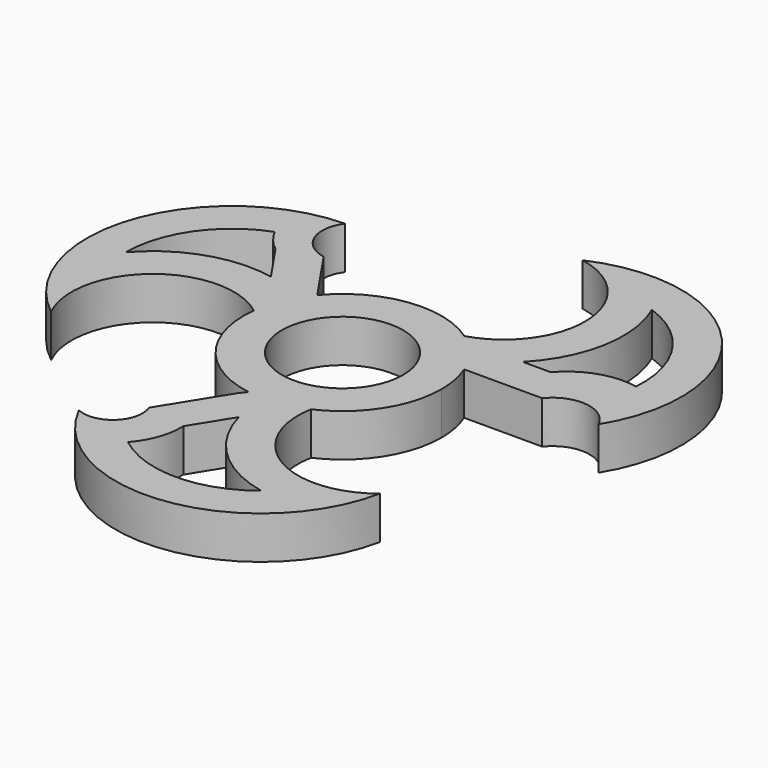
from build123d import *

# Parameters (mm, degrees)
F0_R     = 10.0040416518
F1_DEPTH = 7.04


with BuildPart() as f1:
    # F0 (on Top) → F1 (new body)
    with BuildSketch(Plane.XY):
        with BuildLine():
            ThreePointArc((8.0596013479, 39.4250795937), (18.9862113581, 26.931715548), (9.3900539463, 13.3896066124))
            ThreePointArc((9.3900539463, 13.3896066124), (12.8029919773, 10.175366076), (15.1637771231, 6.1249115676))
            Line((15.1637771231, 6.1249115676), (15.937639911, 6.1249115676))
            Line((15.937639911, 6.1249115676), (28.0554961826, 6.1249115676))
            ThreePointArc((28.0554961826, 6.1249115676), (33.4743323204, 8.3717454292), (38.2599624573, 4.9791370399))
            ThreePointArc((38.2599624573, 4.9791370399), (35.9003199694, 33.3723310432), (8.0596013479, 39.4250795937))
        make_face()
        with BuildLine():
            ThreePointArc((35.4391843293, 16.2098441298), (29.4013015143, 15.8466192988), (24.3793946911, 12.4749115676))
            Line((24.3793946911, 12.4749115676), (19.7612497114, 12.4749115676))
            ThreePointArc((19.7612497114, 12.4749115676), (25.0400123396, 22.7411647393), (23.6803165677, 34.204694583))
            ThreePointArc((23.6803165677, 34.204694583), (32.6253176497, 27.2104868561), (35.4391843293, 16.2098441298))
        make_face(mode=Mode.SUBTRACT)
        with BuildLine():
            ThreePointArc((15.1637771231, 6.1249115676), (12.8029919773, 10.175366076), (9.3900539463, 13.3896066124))
            ThreePointArc((9.3900539463, 13.3896066124), (-2.1364828918, 16.2138866162), (-12.5379799884, 10.5001779109))
            ThreePointArc((-12.5379799884, 10.5001779109), (-14.9968569617, 6.5229563558), (-16.2297438327, 2.0124844036))
            ThreePointArc((-16.2297438327, 2.0124844036), (-13.0647635418, -9.8370031995), (-2.5516255591, -16.1537576234))
            ThreePointArc((-2.5516255591, -16.1537576234), (-2.5484818112, -16.154253892), (-2.5453379668, -16.1547495488))
            ThreePointArc((-2.5453379668, -16.1547495488), (-2.5451208542, -16.1547837555), (-2.5449037412, -16.1548179593))
            ThreePointArc((-2.5449037412, -16.1548179593), (2.1768059123, -16.2085222759), (6.717037457, -14.9109384732))
            ThreePointArc((6.717037457, -14.9109384732), (13.7350898923, -8.877048158), (16.3540416518, 0))
            ThreePointArc((16.3540416518, 0), (16.0537179653, 3.1197464384), (15.1637771231, 6.1249115676))
        make_face()
        Circle(F0_R, mode=Mode.SUBTRACT)
        with BuildLine():
            ThreePointArc((-16.2297438327, 2.0124844036), (-14.9968569617, 6.5229563558), (-12.5379799884, 10.5001779109))
            Line((-12.5379799884, 10.5001779109), (-13.1381993498, 11.348302759))
            Line((-13.1381993498, 11.348302759), (-18.6180223097, 19.38283416))
            ThreePointArc((-18.6180223097, 19.38283416), (-22.886896, 22.8371620642), (-22.2051291736, 28.2860938723))
            ThreePointArc((-22.2051291736, 28.2860938723), (-44.431743107, 11.8873369712), (-36.4311702867, -14.5499932531))
            ThreePointArc((-36.4311702867, -14.5499932531), (-32.9169731903, 1.7648878816), (-16.2297438327, 2.0124844036))
        make_face()
        with BuildLine():
            ThreePointArc((-27.8425738277, 20.8345445104), (-26.5172228087, 18.8430269716), (-24.8001450054, 17.1773915828))
            Line((-24.8001450054, 17.1773915828), (-20.4118380564, 10.7432439401))
            ThreePointArc((-20.4118380564, 10.7432439401), (-30.7174803102, 10.1222622456), (-39.3025332707, 4.3873911753))
            ThreePointArc((-39.3025332707, 4.3873911753), (-36.142247382, 14.4014653535), (-27.8425738277, 20.8345445104))
        make_face(mode=Mode.SUBTRACT)
        with BuildLine():
            ThreePointArc((28.3540401584, -27.7120920045), (13.0814706801, -28.8399527249), (6.717037457, -14.9109384732))
            ThreePointArc((6.717037457, -14.9109384732), (2.1768059123, -16.2085222759), (-2.5449037412, -16.1548179593))
            ThreePointArc((-2.5449037412, -16.1548179593), (-2.5451208542, -16.1547837555), (-2.5453379668, -16.1547495488))
            ThreePointArc((-2.5453379668, -16.1547495488), (-2.5484818112, -16.154253892), (-2.5516255591, -16.1537576234))
            Line((-2.5516255591, -16.1537576234), (-3.4641944059, -17.2808545138))
            Line((-3.4641944059, -17.2808545138), (-9.8543521959, -27.576888898))
            ThreePointArc((-9.8543521959, -27.576888898), (-11.0679351896, -32.9167573694), (-16.4773315191, -33.7684676051))
            ThreePointArc((-16.4773315191, -33.7684676051), (8.0897637018, -46.6657507467), (28.3540401584, -27.7120920045))
        make_face()
        with BuildLine():
            ThreePointArc((-5.9789437938, -36.7808810105), (-3.8125370617, -33.0947145568), (-3.1808303734, -28.8659927744))
            Line((-3.1808303734, -28.8659927744), (0.8243466838, -22.4127185282))
            ThreePointArc((0.8243466838, -22.4127185282), (6.3485406517, -31.6703504661), (15.9104272307, -36.6493858287))
            ThreePointArc((15.9104272307, -36.6493858287), (4.9886650126, -40.5310640467), (-5.9789437938, -36.7808810105))
        make_face(mode=Mode.SUBTRACT)
    extrude(amount=F1_DEPTH)


solid = f1.part
